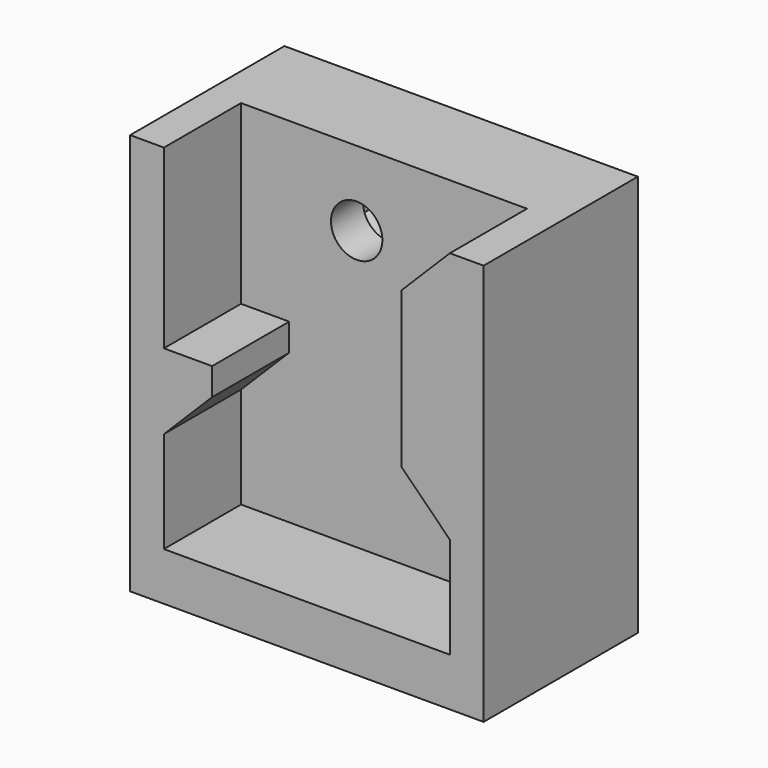
from build123d import *

# Parameters (mm, degrees)
F0_W     = 22
F0_H     = 25
F1_DEPTH = 12
F2_W     = 17.8
F2_H     = 22
F3_DEPTH = 6
F5_DEPTH = 6
F6_R     = 1.6
F7_DEPTH = 6.001
F9_DEPTH = 3.5


with BuildPart() as f1:
    # F0 (on Front) → F1 (new body)
    with BuildSketch(Plane.XZ):
        with Locations((0, 12.5)):
            Rectangle(F0_W, F0_H)
    extrude(amount=-F1_DEPTH)

    # F2 (on face) → F3 (cut)
    with BuildSketch(Plane.XZ):
        with Locations((0, 14)):
            Rectangle(F2_W, F2_H)
    extrude(amount=-F3_DEPTH, mode=Mode.SUBTRACT)

    # F4 (on face) → F5 (join, through all)
    with BuildSketch(Plane.XZ):
        Polygon((-5.9, 14), (-8.9, 14), (-8.9, 9.3), (-5.9, 12.3), align=None)
        Polygon((8.9, 9.3), (8.9, 25), (5.9, 22), (5.9, 12.3), align=None)
    extrude(amount=-F5_DEPTH)

    # F6 (on face) → F7 (cut, through all)
    with BuildSketch(Plane.XZ.offset(-6)):
        with Locations((-1.7, 20.35)):
            Circle(F6_R)
    extrude(amount=-F7_DEPTH, mode=Mode.SUBTRACT)

    # F8 (on face) → F9 (cut)
    with BuildSketch(Plane(origin=(0, 12, 0), x_dir=(-1, 0, 0), z_dir=(0, 1, 0))):
        Polygon((4.65, 18.646817), (4.65, 22.053183), (1.7, 23.756367), (-1.25, 22.053183), (-1.25, 18.646817), (1.7, 16.943633), align=None)
    extrude(amount=-F9_DEPTH, mode=Mode.SUBTRACT)


solid = f1.part
